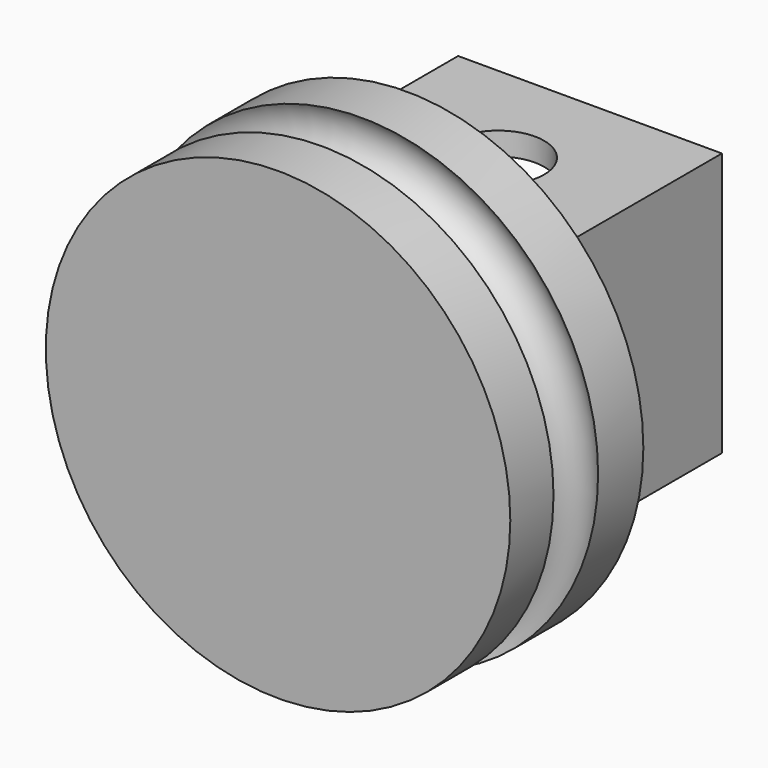
from build123d import *

# Parameters (mm, degrees)
CYLINDER019_R     = 10.125
CYLINDER019_DEPTH = 7
BOX016_W          = 11.5
BOX016_H          = 11.5
BOX016_DEPTH      = 10
CYLINDER023_R     = 10.325
CYLINDER023_DEPTH = 2.5
BOX017_W          = 9.5
BOX017_H          = 9.5
BOX017_DEPTH      = 15
CYLINDER020_R     = 2
CYLINDER020_DEPTH = 11.5
TORUS_R           = 1.25


with BuildPart() as part:
    # Cylinder019 → Cylinder019 (join)
    with BuildSketch(Plane.XZ):
        Circle(CYLINDER019_R)
    extrude(amount=CYLINDER019_DEPTH)

    # Box016 → Box016 (join)
    with BuildSketch(Plane(origin=(-5.75, 0, 5.75), x_dir=(1, 0, 0), z_dir=(0, 1, 0))):
        with Locations((5.75, 5.75)):
            Rectangle(BOX016_W, BOX016_H)
    extrude(amount=BOX016_DEPTH)

    # Cylinder023 → Cylinder023 (join)
    with BuildSketch(Plane(origin=(0, 0, 0), x_dir=(-1, 0, 0), z_dir=(0, -1, 0))):
        Circle(CYLINDER023_R)
    extrude(amount=CYLINDER023_DEPTH)

    # Box017 → Box017 (cut)
    with BuildSketch(Plane(origin=(-4.75, 10, -4.75), x_dir=(1, 0, 0), z_dir=(0, -1, 0))):
        with Locations((4.75, 4.75)):
            Rectangle(BOX017_W, BOX017_H)
    extrude(amount=BOX017_DEPTH, mode=Mode.SUBTRACT)

    # Cylinder020 → Cylinder020 (cut)
    with BuildSketch(Plane(origin=(0, 5, 5.75), x_dir=(1, 0, 0), z_dir=(0, 0, -1))):
        Circle(CYLINDER020_R)
    extrude(amount=CYLINDER020_DEPTH, mode=Mode.SUBTRACT)

    # Torus → Torus (revolve, cut)
    with BuildSketch(Plane(origin=(0, -3.5, 0), x_dir=(1, 0, 0), z_dir=(0, 0, -1))):
        with Locations((9.625, 0)):
            Circle(TORUS_R)
    revolve(axis=Axis((0, -3.5, 0), (0, -1, 0)), mode=Mode.SUBTRACT)


with BuildPart() as part_1:
    # Body004 placement: moved
    add(part.part.moved(Location((0, 60, 0))))


solid = part_1.part
